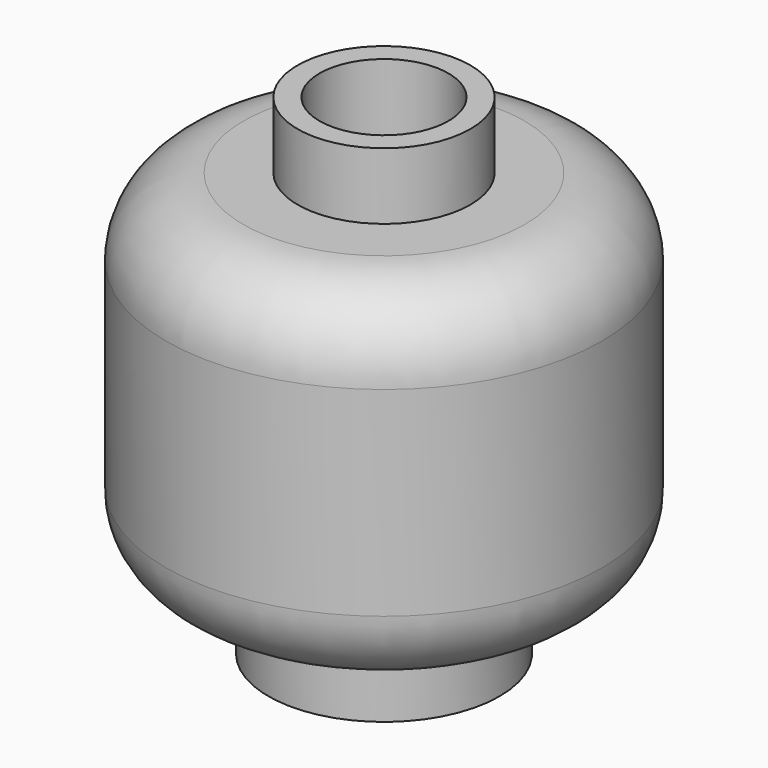
from build123d import *

# Parameters (mm, degrees)
F0_R     = 22.766123
F1_DEPTH = 13.56037
F2_R     = 42.909984
F2_R_2   = 22.766123
F3_DEPTH = 69.79863
F4_R     = 17.01771
F5_DEPTH = 13.11468
F6_R     = 15.24
F8_D     = 25.4


with BuildPart() as f1:
    # F0 (on Top) → F1 (new body)
    with BuildSketch(Plane.XY):
        Circle(F0_R)
    extrude(amount=F1_DEPTH)

    # F2 (on face) → F3 (join)
    with BuildSketch(Plane.XY.offset(13.56037)):
        Circle(F2_R)
        Circle(F2_R_2, mode=Mode.SUBTRACT)
        Circle(F2_R_2)
    extrude(amount=F3_DEPTH)

    # F4 (on face) → F5 (join)
    with BuildSketch(Plane.XY.offset(83.359)):
        Circle(F4_R)
    extrude(amount=F5_DEPTH)

    # F6
    f6_edges = [f1.edges().sort_by_distance(p)[0] for p in [
        (-42.909984, 0, 83.359),
        (-42.909984, 0, 13.56037),
    ]]
    fillet(f6_edges, radius=F6_R)

    # F8 (through all)
    with Locations(Plane.XY.offset(96.47368)):
        with Locations((0, 0)):
            Hole(F8_D / 2)


solid = f1.part
